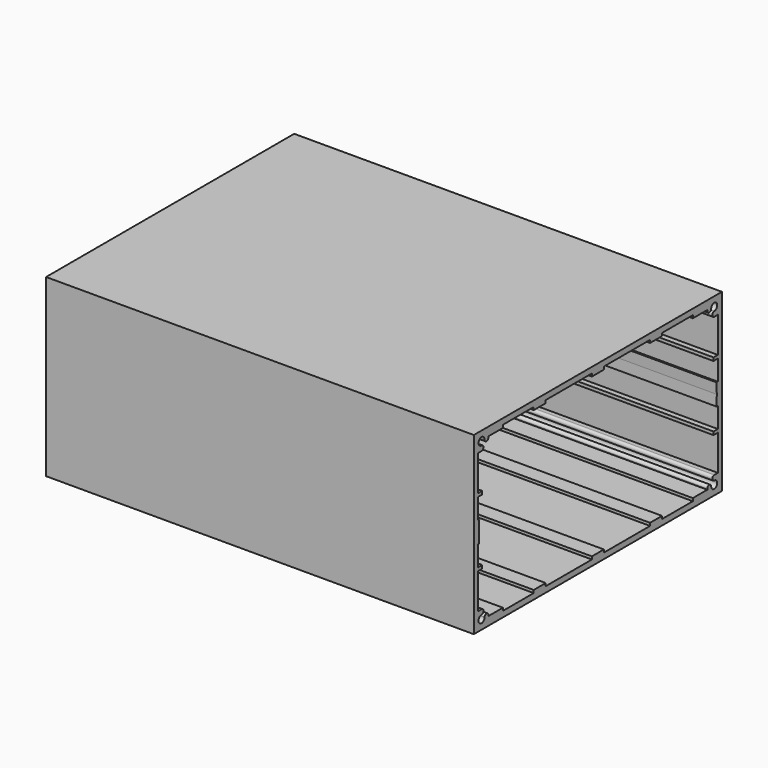
from build123d import *

# Parameters (mm, degrees)
F0_W     = 145
F0_H     = 82
F1_DEPTH = 200


with BuildPart() as f1:
    # F0 (on Right) → F1 (new body)
    with BuildSketch(Plane.YZ):
        with Locations((72.5, 41)):
            Rectangle(F0_W, F0_H)
        with BuildLine():
            Line((69, 78), (72.5, 78))
            Line((72.5, 78), (76, 78))
            Line((76, 78), (76, 79.3))
            Line((76, 79.3), (103, 79.3))
            Line((103, 79.3), (103, 78))
            Line((103, 78), (110, 78))
            Line((110, 78), (110, 79.3))
            Line((110, 79.3), (128, 79.3))
            Line((128, 79.3), (128, 78))
            Line((128, 78), (136.45, 78))
            Line((136.45, 78), (136.45, 77.6))
            ThreePointArc((136.45, 77.6), (137.6, 76.45), (138.75, 77.6))
            ThreePointArc((138.75, 77.6), (141.7374368671, 78.8374368671), (140.5, 75.85))
            ThreePointArc((140.5, 75.85), (139.35, 74.7), (140.5, 73.55))
            Line((140.5, 73.55), (142.6, 73.55))
            Line((142.6, 73.55), (142.6, 57))
            Line((142.6, 57), (140.0795047916, 57))
            Line((140.0795047916, 57), (140.0795047916, 55.5))
            Line((140.0795047916, 55.5), (142.6, 55.5))
            Line((142.6, 55.5), (142.6, 45.9740793705))
            Line((142.6, 45.9740793705), (141.8683309853, 45.9740793705))
            Line((141.8683309853, 45.9740793705), (142, 41))
            Line((142, 41), (141.8683309853, 36.0259206295))
            Line((141.8683309853, 36.0259206295), (142.6, 36.0259206295))
            Line((142.6, 36.0259206295), (142.6, 26.5))
            Line((142.6, 26.5), (140.0795047916, 26.5))
            Line((140.0795047916, 26.5), (140.0795047916, 25))
            Line((140.0795047916, 25), (142.6, 25))
            Line((142.6, 25), (142.6, 8.45))
            Line((142.6, 8.45), (140.5, 8.45))
            ThreePointArc((140.5, 8.45), (139.35, 7.3), (140.5, 6.15))
            ThreePointArc((140.5, 6.15), (141.7374368671, 3.1625631329), (138.75, 4.4))
            ThreePointArc((138.75, 4.4), (137.6, 5.55), (136.45, 4.4))
            Line((136.45, 4.4), (136.45, 4))
            Line((136.45, 4), (128, 4))
            Line((128, 4), (128, 2.7))
            Line((128, 2.7), (110, 2.7))
            Line((110, 2.7), (110, 4))
            Line((110, 4), (103, 4))
            Line((103, 4), (103, 2.7))
            Line((103, 2.7), (76, 2.7))
            Line((76, 2.7), (76, 4))
            Line((76, 4), (72.5, 4))
            Line((72.5, 4), (69, 4))
            Line((69, 4), (69, 2.7))
            Line((69, 2.7), (42, 2.7))
            Line((42, 2.7), (42, 4))
            Line((42, 4), (35, 4))
            Line((35, 4), (35, 2.7))
            Line((35, 2.7), (17, 2.7))
            Line((17, 2.7), (17, 4))
            Line((17, 4), (8.55, 4))
            Line((8.55, 4), (8.55, 4.4))
            ThreePointArc((8.55, 4.4), (7.4, 5.55), (6.25, 4.4))
            ThreePointArc((6.25, 4.4), (3.2625631329, 3.1625631329), (4.5, 6.15))
            ThreePointArc((4.5, 6.15), (5.65, 7.3), (4.5, 8.45))
            Line((4.5, 8.45), (2.4, 8.45))
            Line((2.4, 8.45), (2.4, 25))
            Line((2.4, 25), (4.9204952084, 25))
            Line((4.9204952084, 25), (4.9204952084, 26.5))
            Line((4.9204952084, 26.5), (2.4, 26.5))
            Line((2.4, 26.5), (2.4, 36.0259206295))
            Line((2.4, 36.0259206295), (3.1316690147, 36.0259206295))
            Line((3.1316690147, 36.0259206295), (3, 41))
            Line((3, 41), (3.1316690147, 45.9740793705))
            Line((3.1316690147, 45.9740793705), (2.4, 45.9740793705))
            Line((2.4, 45.9740793705), (2.4, 55.5))
            Line((2.4, 55.5), (4.9204952084, 55.5))
            Line((4.9204952084, 55.5), (4.9204952084, 57))
            Line((4.9204952084, 57), (2.4, 57))
            Line((2.4, 57), (2.4, 73.55))
            Line((2.4, 73.55), (4.5, 73.55))
            ThreePointArc((4.5, 73.55), (5.65, 74.7), (4.5, 75.85))
            ThreePointArc((4.5, 75.85), (3.2625631329, 78.8374368671), (6.25, 77.6))
            ThreePointArc((6.25, 77.6), (7.4, 76.45), (8.55, 77.6))
            Line((8.55, 77.6), (8.55, 78))
            Line((8.55, 78), (17, 78))
            Line((17, 78), (17, 79.3))
            Line((17, 79.3), (35, 79.3))
            Line((35, 79.3), (35, 78))
            Line((35, 78), (42, 78))
            Line((42, 78), (42, 79.3))
            Line((42, 79.3), (69, 79.3))
            Line((69, 79.3), (69, 78))
        make_face(mode=Mode.SUBTRACT)
    extrude(amount=F1_DEPTH)


solid = f1.part
